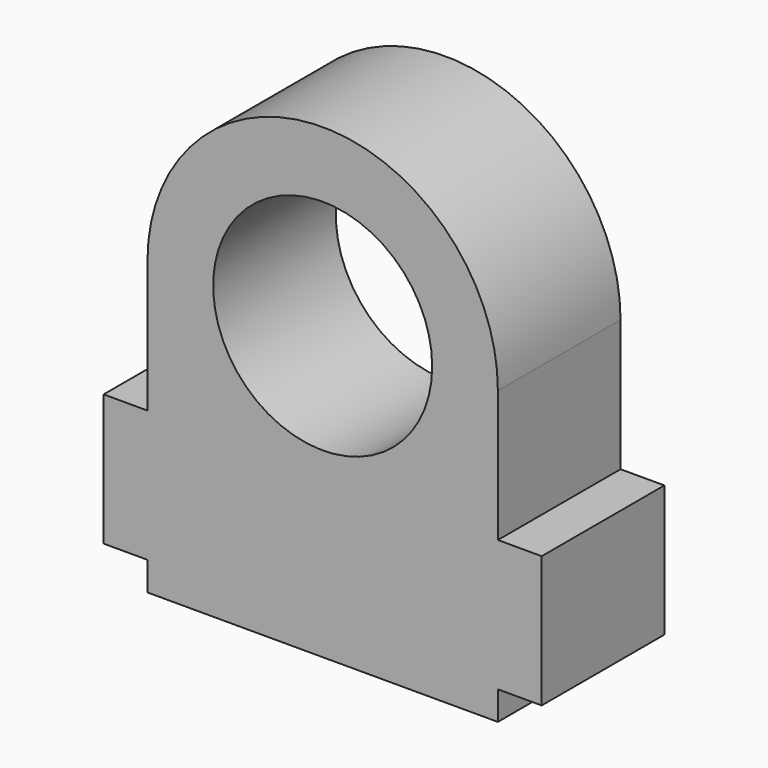
from build123d import *

# Parameters (mm, degrees)
F0_R     = 12.5
F1_DEPTH = 17.5


with BuildPart() as f1:
    # F0 (on Front) → F1 (new body)
    with BuildSketch(Plane.XZ):
        with BuildLine():
            Line((-45.037766, 9.175865), (-5.037766, 9.175865))
            Line((-5.037766, 9.175865), (-5.037766, 12.45487))
            Line((-5.037766, 12.45487), (-0.037766, 12.45487))
            Line((-0.037766, 12.45487), (-0.037766, 27.45487))
            Line((-0.037766, 27.45487), (-5.037766, 27.45487))
            Line((-5.037766, 27.45487), (-5.037766, 42.45487))
            ThreePointArc((-5.037766, 42.45487), (-25.037766, 62.45487), (-45.037766, 42.45487))
            Line((-45.037766, 42.45487), (-45.037766, 27.45487))
            Line((-45.037766, 27.45487), (-50.037766, 27.45487))
            Line((-50.037766, 27.45487), (-50.037766, 12.45487))
            Line((-50.037766, 12.45487), (-45.037766, 12.45487))
            Line((-45.037766, 12.45487), (-45.037766, 9.175865))
        make_face()
        with Locations((-25.037766, 42.45487)):
            Circle(F0_R, mode=Mode.SUBTRACT)
    extrude(amount=F1_DEPTH)


solid = f1.part
